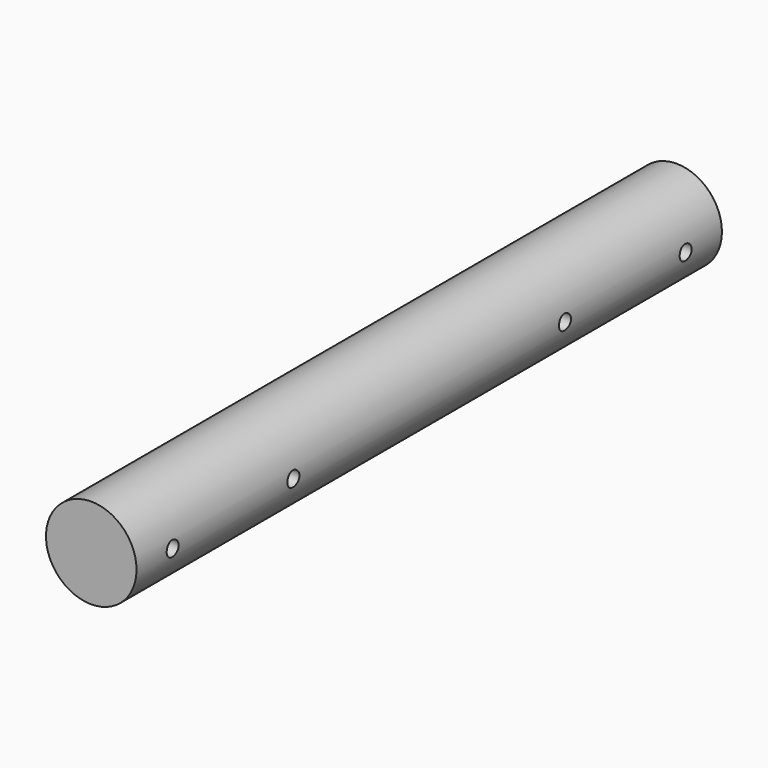
from build123d import *

# Parameters (mm, degrees)
F0_R          = 19.05
F1_DEPTH      = 153.9875
F2_R          = 3.175
F3_DEPTH      = 19.051
F3_DEPTH_BACK = 19.051


with BuildPart() as f1:
    # F0 (on Front) → F1 (new body, symmetric)
    with BuildSketch(Plane.XZ):
        Circle(F0_R)
    extrude(amount=F1_DEPTH, both=True)

    # F2 (on Right) → F3 (cut, two sides)
    with BuildSketch(Plane.YZ) as f3_sk:
        with Locations((-134.9375, 0)):
            Circle(F2_R)
        with Locations((134.9375, 0)):
            Circle(F2_R)
        with Locations((-71.4375, 0)):
            Circle(F2_R)
        with Locations((71.4375, 0)):
            Circle(F2_R)
    extrude(amount=F3_DEPTH, mode=Mode.SUBTRACT)
    extrude(f3_sk.sketch, amount=-F3_DEPTH_BACK, mode=Mode.SUBTRACT)


solid = f1.part
